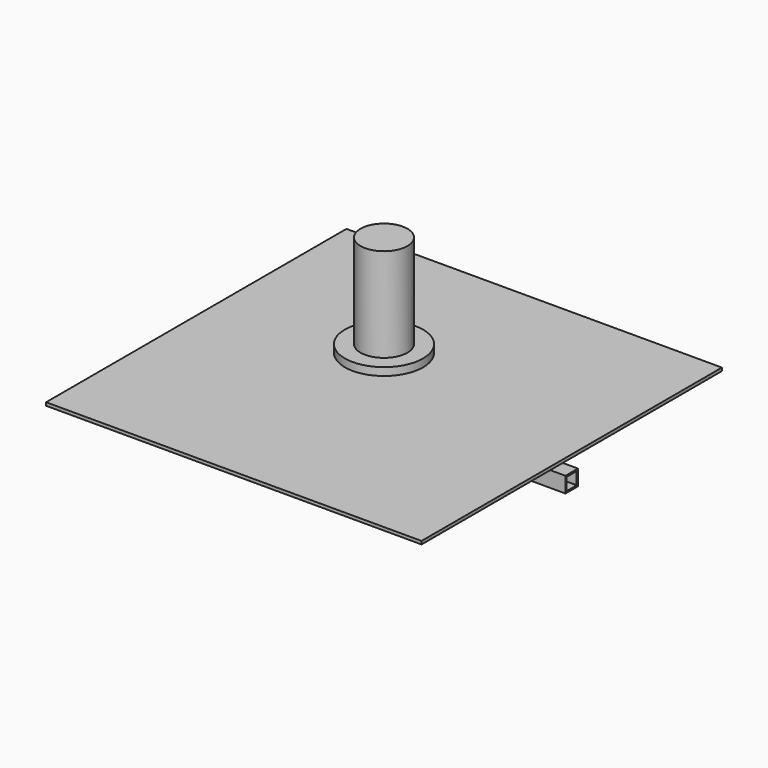
from build123d import *

# Parameters (mm, degrees)
F0_W     = 609.6
F0_H     = 609.6
F1_DEPTH = 5.08
F2_W     = 25.4
F2_H     = 25.4
F2_W_2   = 20.32
F2_H_2   = 20.32
F3_DEPTH = 609.6
F5_R     = 63.5
F6_DEPTH = 12.7
F7_R     = 38.1
F8_DEPTH = 152.4


with BuildPart() as f1:
    # F0 (on Top) → F1 (new body)
    with BuildSketch(Plane.XY):
        Rectangle(F0_W, F0_H)
    extrude(amount=F1_DEPTH)


with BuildPart() as f3:
    # F2 (on face) → F3 (new body)
    with BuildSketch(Plane(origin=(-304.8, 0, 0), x_dir=(0, -1, 0), z_dir=(-1, 0, 0))):
        with Locations((0, -33.238985)):
            Rectangle(F2_W, F2_H)
        with Locations((0, -33.238985)):
            Rectangle(F2_W_2, F2_H_2, mode=Mode.SUBTRACT)
    extrude(amount=-F3_DEPTH)


with BuildPart() as f6:
    # F5 (on offset) → F6 (new body)
    with BuildSketch(Plane.XY.offset(50.8)):
        Circle(F5_R)
    extrude(amount=F6_DEPTH)

    # F7 (on face) → F8 (join)
    with BuildSketch(Plane.XY.offset(63.5)):
        Circle(F7_R)
    extrude(amount=F8_DEPTH)


solid = Compound([f1.part, f3.part, f6.part])
